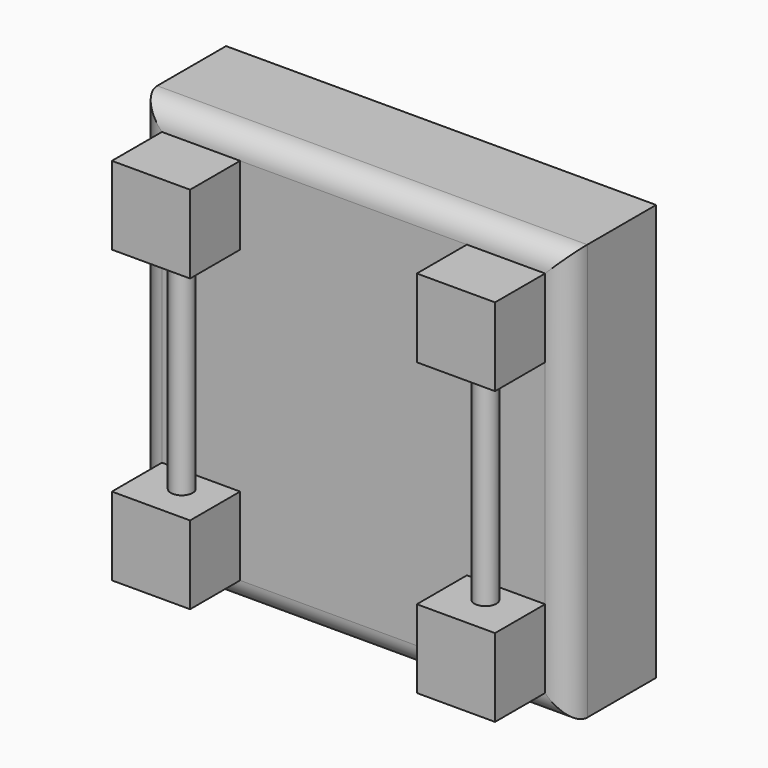
from build123d import *

# Parameters (mm, degrees)
F0_W      = 137.506828
F0_H      = 133.092508
F1_DEPTH  = 17.5
F2_T      = -5
F3_R      = 7.5
F4_W      = 25
F4_H      = 25
F5_DEPTH  = 20
F6_W      = 25
F6_H      = 25
F7_DEPTH  = 20
F8_W      = 25
F8_H      = 25
F9_DEPTH  = 20
F10_W     = 25
F10_H     = 25
F11_DEPTH = 20
F12_R     = 3.5
F13_DEPTH = 68
F14_R     = 3.5
F15_DEPTH = 68


with BuildPart() as f1:
    # F0 (on Front) → F1 (new body, symmetric)
    with BuildSketch(Plane.XZ):
        Rectangle(F0_W, F0_H)
    extrude(amount=F1_DEPTH, both=True)

    # F2
    f2_openings = [f1.faces().sort_by_distance(p)[0] for p in [
        (0, 17.5, 0),
    ]]
    offset(amount=F2_T, openings=f2_openings)

    # F3
    f3_edges = [f1.edges().sort_by_distance(p)[0] for p in [
        (0, -17.5, -66.546254),
        (68.753414, -17.5, 0),
        (0, -17.5, 66.546254),
        (-68.753414, -17.5, 0),
    ]]
    fillet(f3_edges, radius=F3_R)

    # F4 (on face) → F5 (join)
    with BuildSketch(Plane.XZ.offset(17.5)):
        with Locations((-48.753414, 46.546254)):
            Rectangle(F4_W, F4_H)
    extrude(amount=F5_DEPTH)

    # F6 (on face) → F7 (join)
    with BuildSketch(Plane.XZ.offset(17.5)):
        with Locations((48.753414, 46.546254)):
            Rectangle(F6_W, F6_H)
    extrude(amount=F7_DEPTH)

    # F8 (on face) → F9 (join)
    with BuildSketch(Plane.XZ.offset(17.5)):
        with Locations((-48.753414, -46.546254)):
            Rectangle(F8_W, F8_H)
    extrude(amount=F9_DEPTH)

    # F10 (on face) → F11 (join)
    with BuildSketch(Plane.XZ.offset(17.5)):
        with Locations((48.753414, -46.546254)):
            Rectangle(F10_W, F10_H)
    extrude(amount=F11_DEPTH)

    # F12 (on face) → F13 (join)
    with BuildSketch(Plane(origin=(0, 0, 34.046254), x_dir=(1, 0, 0), z_dir=(0, 0, -1))):
        with Locations((-48.423063, 25.617592)):
            Circle(F12_R)
    extrude(amount=F13_DEPTH)

    # F14 (on face) → F15 (join)
    with BuildSketch(Plane(origin=(0, 0, 34.046254), x_dir=(1, 0, 0), z_dir=(0, 0, -1))):
        with Locations((48.201937, 25.032593)):
            Circle(F14_R)
    extrude(amount=F15_DEPTH)


solid = f1.part
